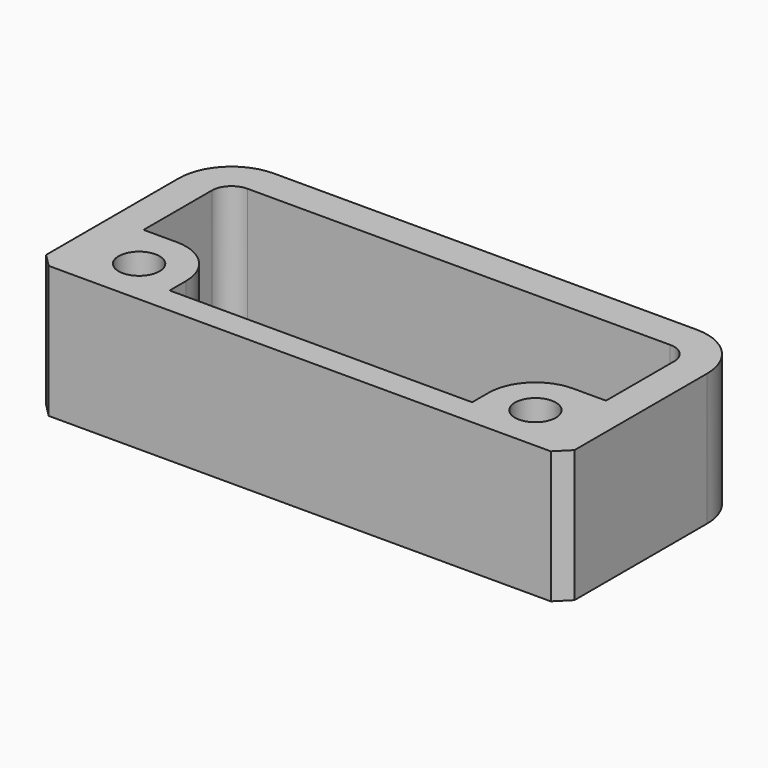
from build123d import *

# Parameters (mm, degrees)
F0_R     = 1.55
F1_DEPTH = 10
F3_SIZE  = 1


with BuildPart() as f1:
    # F0 (on Top) → F1 (new body)
    with BuildSketch(Plane.XY):
        with BuildLine():
            Line((16, 17.55), (0, 17.55))
            Line((0, 17.55), (0, 15.05))
            Line((0, 15.05), (16, 15.05))
            ThreePointArc((16, 15.05), (17.0606601718, 14.6106601718), (17.5, 13.55))
            Line((17.5, 13.55), (17.5, 7.1))
            Line((17.5, 7.1), (15, 7.1))
            ThreePointArc((15, 7.1), (12.4897709268, 6.0602290732), (11.45, 3.55))
            Line((11.45, 3.55), (11.45, 2))
            Line((11.45, 2), (0, 2))
            Line((0, 2), (0, 0))
            Line((0, 0), (20, 0))
            Line((20, 0), (20, 13.55))
            ThreePointArc((20, 13.55), (18.8284271247, 16.3784271247), (16, 17.55))
        make_face()
        with Locations((15, 3.55)):
            Circle(F0_R, mode=Mode.SUBTRACT)
    extrude(amount=F1_DEPTH)

    # F2: F1 across face


with BuildPart() as f1_1:
    add(f1.part)
    add(f1.part.mirror(Plane(origin=(0, 16.3, 5), x_dir=(0, -1, 0), z_dir=(-1, 0, 0))))

    # F3
    f3_edges = [f1_1.edges().sort_by_distance(p)[0] for p in [
        (-20, 0, 5),
        (20, 0, 5),
    ]]
    chamfer(f3_edges, length=F3_SIZE)


solid = f1_1.part
